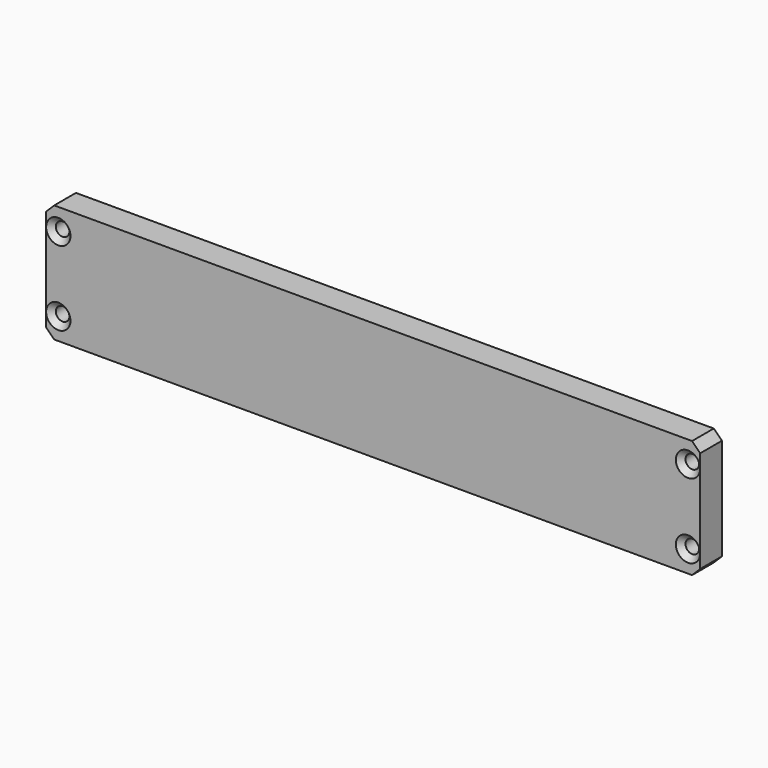
from build123d import *

# Parameters (mm, degrees)
F0_W           = 241
F0_H           = 43.5
F1_DEPTH       = 10
F2_SIZE        = 3
F4_DEPTH       = 2
F6_D           = 5
F6_CSINK_D     = 8.96
F6_CSINK_ANGLE = 90


with BuildPart() as f1:
    # F0 (on Front) → F1 (new body)
    with BuildSketch(Plane.XZ):
        with Locations((120.5, 21.75)):
            Rectangle(F0_W, F0_H)
    extrude(amount=F1_DEPTH)

    # F2
    f2_edges = [f1.edges().sort_by_distance(p)[0] for p in [
        (241, -5, 43.5),
        (241, -5, 0),
        (0, -5, 43.5),
        (0, -5, 0),
    ]]
    chamfer(f2_edges, length=F2_SIZE)

    # F3 (on face) → F4 (join)
    with BuildSketch(Plane(origin=(0, 0, 0), x_dir=(-1, 0, 0), z_dir=(0, 1, 0))):
        Polygon((-9.4982709692, 33.0000003319), (-9.4999992993, 37.5), (-231.4982709692, 37.5), (-231.4982709692, 33.0000003319), align=None)
    extrude(amount=F4_DEPTH)

    # F6 (through all)
    with Locations(Plane.XZ.offset(10)):
        with Locations((236.5, 35.5), (236.5, 8), (4.5, 35.5), (4.5, 8)):
            CounterSinkHole(F6_D / 2, F6_CSINK_D / 2, counter_sink_angle=F6_CSINK_ANGLE)


solid = f1.part
